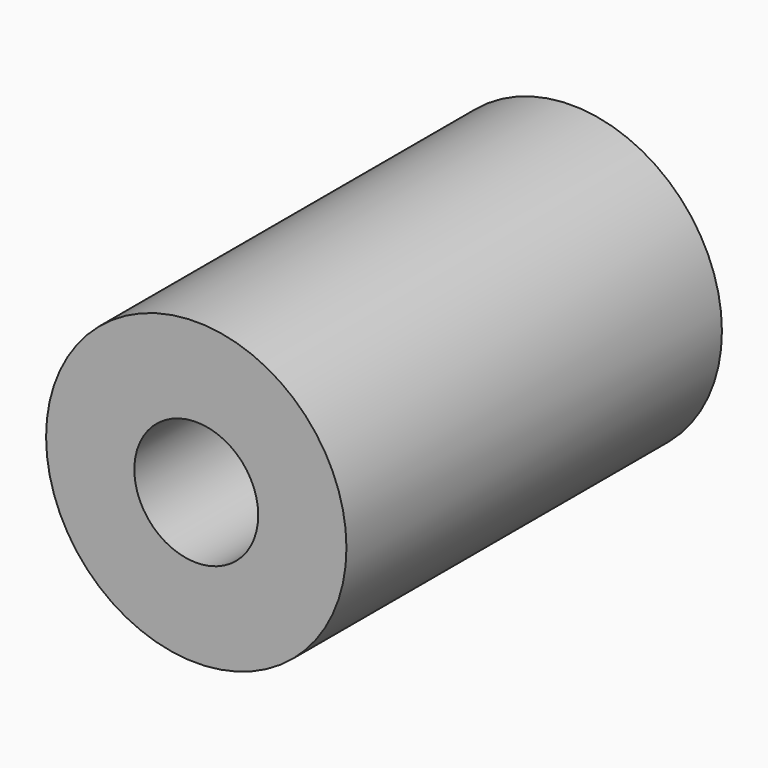
from build123d import *

# Parameters (mm, degrees)
CYLINDER046_R     = 3.3
CYLINDER046_DEPTH = 25
CYLINDER044_R     = 8
CYLINDER044_DEPTH = 25


with BuildPart() as zylinder046:
    # Cylinder046 → Cylinder046 (new body)
    with BuildSketch(Plane(origin=(80, 0, 40), x_dir=(1, 0, 0), z_dir=(0, -1, 0))):
        Circle(CYLINDER046_R)
    extrude(amount=CYLINDER046_DEPTH)


with BuildPart() as spacer01:
    # Cylinder044 → Cylinder044 (new body)
    with BuildSketch(Plane(origin=(80, 0, 40), x_dir=(1, 0, 0), z_dir=(0, -1, 0))):
        Circle(CYLINDER044_R)
    extrude(amount=CYLINDER044_DEPTH)

    # Cut006: cut Zylinder046
    add(zylinder046.part, mode=Mode.SUBTRACT)


solid = spacer01.part
